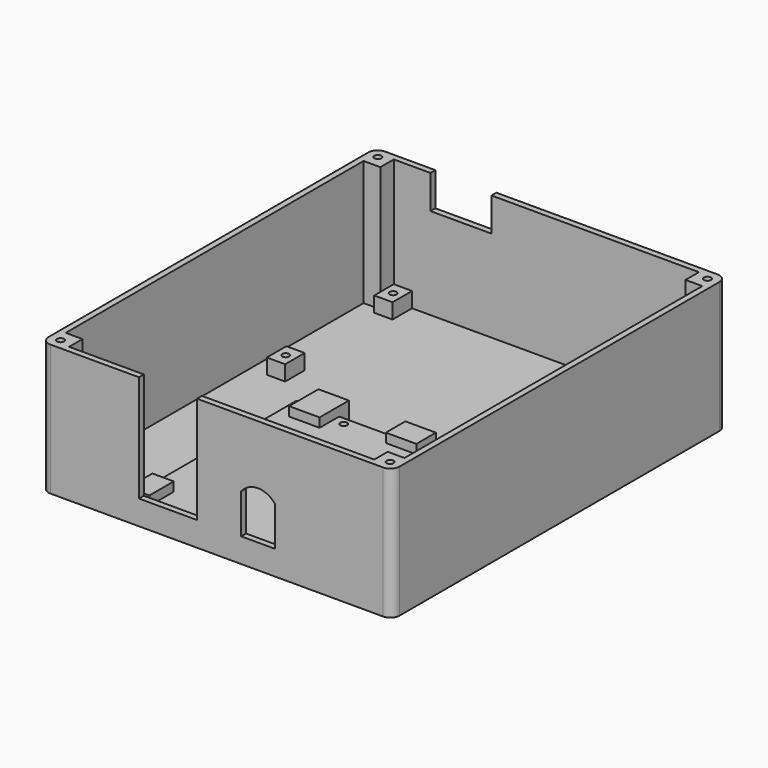
from build123d import *

# Parameters (mm, degrees)
F0_W      = 115
F0_H      = 137
F1_DEPTH  = 2
F2_W      = 115
F2_H      = 137
F2_W_2    = 111
F2_H_2    = 133
F3_DEPTH  = 41
F4_W      = 6
F4_H      = 8
F4_R      = 1.15
F5_DEPTH  = 5
F6_W      = 22
F6_H      = 43
F6_R      = 1.15
F7_DEPTH  = 3
F8_W      = 53.5
F8_H      = 69
F8_R      = 1.15
F9_DEPTH  = 3
F10_W     = 10
F10_H     = 8
F10_W_2   = 7
F10_H_2   = 10
F10_H_3   = 12
F11_DEPTH = 6
F12_W     = 19
F12_H     = 5.221757
F12_H_2   = 32
F13_DEPTH = 2
F14_W     = 20
F14_H     = 11
F15_DEPTH = 2
F16_W     = 5.5
F16_H     = 5.5
F17_DEPTH = 41
F18_R     = 1.15
F19_DEPTH = 5
F20_R     = 3


with BuildPart() as f1:
    # F0 (on Top) → F1 (new body)
    with BuildSketch(Plane.XY):
        Rectangle(F0_W, F0_H)
    extrude(amount=F1_DEPTH)

    # F2 (on face) → F3 (join)
    with BuildSketch(Plane.XY.offset(2)):
        Rectangle(F2_W, F2_H)
        Rectangle(F2_W_2, F2_H_2, mode=Mode.SUBTRACT)
    extrude(amount=F3_DEPTH)

    # F4 (on face) → F5 (join)
    with BuildSketch(Plane.XY.offset(2)):
        with Locations((-47, 62.5)):
            Rectangle(F4_W, F4_H)
        with Locations((-47, 62.5)):
            Circle(F4_R, mode=Mode.SUBTRACT)
        with Locations((47, 62.5)):
            Rectangle(F4_W, F4_H)
        with Locations((47, 62.5)):
            Circle(F4_R, mode=Mode.SUBTRACT)
        with Locations((-47, 18.5)):
            Rectangle(F4_W, F4_H)
        with Locations((-47, 18.5)):
            Circle(F4_R, mode=Mode.SUBTRACT)
        with Locations((47, 18.5)):
            Rectangle(F4_W, F4_H)
        with Locations((47, 18.5)):
            Circle(F4_R, mode=Mode.SUBTRACT)
    extrude(amount=F5_DEPTH)

    # F6 (on face) → F7 (join)
    with BuildSketch(Plane.XY.offset(2)):
        with Locations((40, -16)):
            Rectangle(F6_W, F6_H)
        with Locations((32, -31)):
            Circle(F6_R, mode=Mode.SUBTRACT)
        with Locations((48, -1)):
            Circle(F6_R, mode=Mode.SUBTRACT)
    extrude(amount=F7_DEPTH)

    # F8 (on face) → F9 (join)
    with BuildSketch(Plane.XY.offset(2)):
        with Locations((-4.75, -31)):
            Rectangle(F8_W, F8_H)
        with Locations((19.5, -51.5)):
            Circle(F8_R, mode=Mode.SUBTRACT)
        with Locations((-14, 1)):
            Circle(F8_R, mode=Mode.SUBTRACT)
        with Locations((14, 1)):
            Circle(F8_R, mode=Mode.SUBTRACT)
    extrude(amount=F9_DEPTH)

    # F10 (on face) → F11 (join)
    with BuildSketch(Plane.XY.offset(2)):
        with Locations((6, 3.5)):
            Rectangle(F10_W, F10_H)
        with Locations((21, -45.5)):
            Rectangle(F10_W, F10_H)
        with Locations((-28, -60.5)):
            Rectangle(F10_W_2, F10_H_2)
        with Locations((-22.5, 1.5)):
            Rectangle(F10_W, F10_H_3)
    extrude(amount=F11_DEPTH)

    # F12 (on face) → F13 (cut)
    with BuildSketch(Plane(origin=(0, -66.5, 0), x_dir=(-1, 0, 0), z_dir=(0, 1, 0))):
        with Locations((16, 42.610878)):
            Rectangle(F12_W, F12_H)
        with Locations((16, 24)):
            Rectangle(F12_W, F12_H_2)
        with BuildLine():
            Line((-19, 8), (-8, 8))
            Line((-8, 8), (-8, 21))
            ThreePointArc((-8, 21), (-13.5, 23.669873), (-19, 21))
            Line((-19, 21), (-19, 8))
        make_face()
    extrude(amount=-F13_DEPTH, mode=Mode.SUBTRACT)

    # F14 (on face) → F15 (cut)
    with BuildSketch(Plane(origin=(0, 68.5, 0), x_dir=(-1, 0, 0), z_dir=(0, 1, 0))):
        with Locations((28, 37.5)):
            Rectangle(F14_W, F14_H)
    extrude(amount=-F15_DEPTH, mode=Mode.SUBTRACT)

    # F16 (on face) → F17 (join)
    with BuildSketch(Plane.XY.offset(2)):
        with Locations((-52.75, -63.75)):
            Rectangle(F16_W, F16_H)
        with Locations((-52.75, 63.75)):
            Rectangle(F16_W, F16_H)
        with Locations((52.75, 63.75)):
            Rectangle(F16_W, F16_H)
        with Locations((52.75, -63.75)):
            Rectangle(F16_W, F16_H)
    extrude(amount=F17_DEPTH)

    # F18 (on face) → F19 (cut)
    with BuildSketch(Plane.XY.offset(43)):
        with Locations((-54, -65)):
            Circle(F18_R)
        with Locations((-54, 65)):
            Circle(F18_R)
        with Locations((54, 65)):
            Circle(F18_R)
        with Locations((54, -65)):
            Circle(F18_R)
    extrude(amount=-F19_DEPTH, mode=Mode.SUBTRACT)

    # F20
    f20_edges = [f1.edges().sort_by_distance(p)[0] for p in [
        (-57.5, -68.5, 21.5),
        (57.5, -68.5, 21.5),
        (57.5, 68.5, 21.5),
        (-57.5, 68.5, 21.5),
    ]]
    fillet(f20_edges, radius=F20_R)


solid = f1.part
